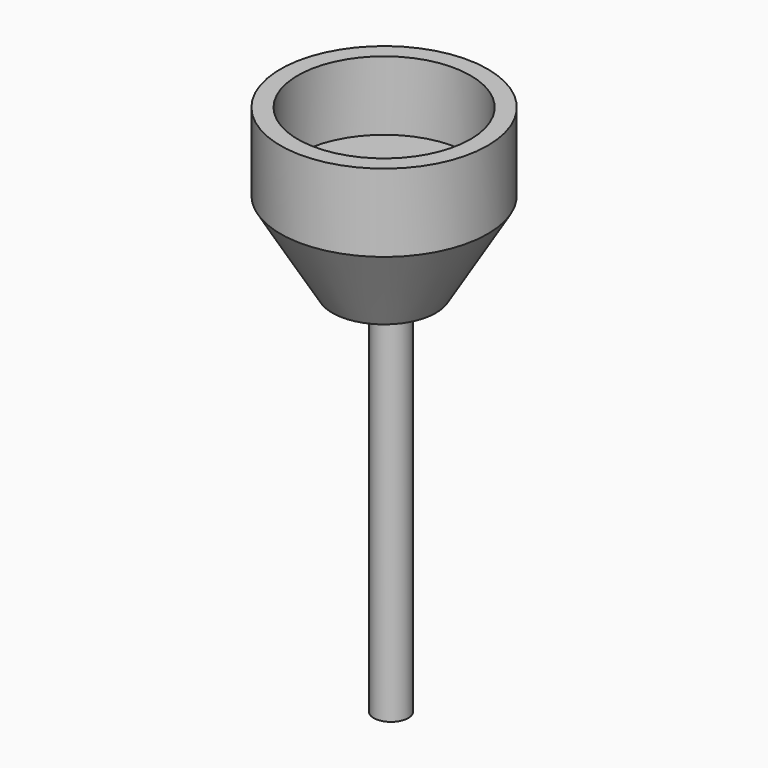
from build123d import *

# Parameters (mm, degrees)
CYLINDER084_R     = 2
CYLINDER084_DEPTH = 52
CYLINDER048_R     = 10
CYLINDER048_DEPTH = 8
CYLINDER049_R     = 12
CYLINDER049_DEPTH = 9


with BuildPart() as cylindre080:
    # Cylinder084 → Cylinder084 (new body)
    with BuildSketch(Plane(origin=(0, 19, -224), x_dir=(1, 0, 0), z_dir=(0, 0, 1))):
        Circle(CYLINDER084_R)
    extrude(amount=CYLINDER084_DEPTH)


with BuildPart() as obj1:
    # Cone → Cone (revolve)
    with BuildSketch(Plane(origin=(0, 18, -181), x_dir=(1, 0, 0), z_dir=(0, -1, 0))):
        Polygon((0, 0), (6, 0), (12, 10), (0, 10), align=None)
    revolve(axis=Axis((0, 18, -181), (0, 0, 1)))


with BuildPart() as cylindre044:
    # Cylinder048 → Cylinder048 (new body)
    with BuildSketch(Plane(origin=(0, 18, -170), x_dir=(1, 0, 0), z_dir=(0, 0, 1))):
        Circle(CYLINDER048_R)
    extrude(amount=CYLINDER048_DEPTH)


with BuildPart() as fusion046:
    # Cylinder049 → Cylinder049 (new body)
    with BuildSketch(Plane(origin=(0, 18, -171), x_dir=(1, 0, 0), z_dir=(0, 0, 1))):
        Circle(CYLINDER049_R)
    extrude(amount=CYLINDER049_DEPTH)

    # Cut036: cut Cylindre044
    add(cylindre044.part, mode=Mode.SUBTRACT)

    # Fusion024: union obj1
    add(obj1.part)

    # Fusion046: union Cylindre080
    add(cylindre080.part)


solid = fusion046.part
